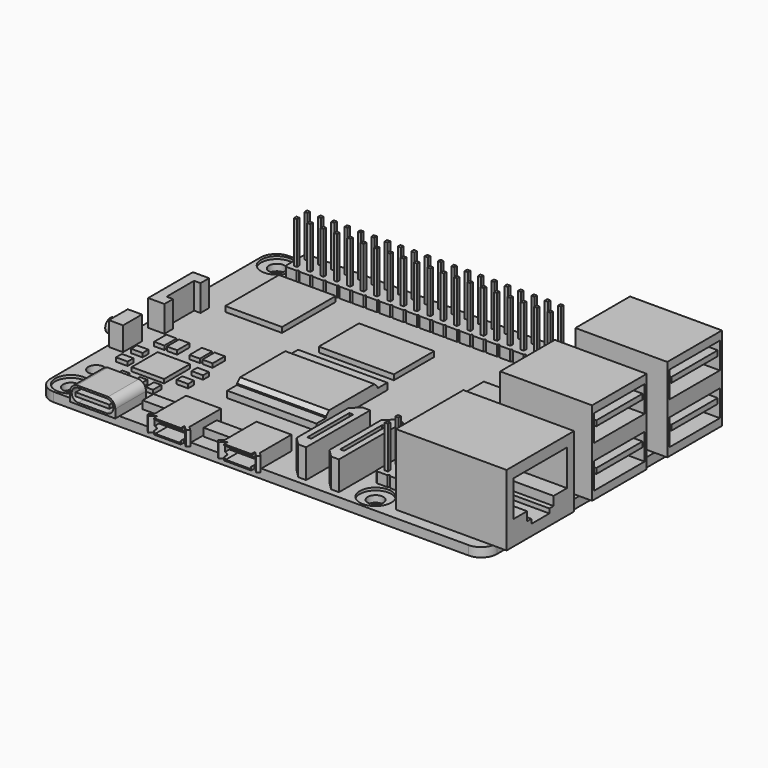
from build123d import *

# Parameters (mm, degrees)
SKETCH_W               = 85
SKETCH_H               = 56
PAD_DEPTH              = 1.75
FILLET_R               = 3
SKETCH001_R            = 1.5
POCKET_DEPTH           = 1.751
SKETCH002_R            = 3
POCKET001_DEPTH        = 0.5
SKETCH003_W            = 8.67
SKETCH003_H            = 7.31
PAD001_DEPTH           = 3.2
PAD002_DEPTH           = 2.76
SKETCH005_W            = 3
SKETCH005_H            = 15.25
PAD003_DEPTH           = 5.5
SKETCH006_W            = 21.08
SKETCH006_H            = 16.06
PAD004_DEPTH           = 13.5
SKETCH007_W            = 17.5
SKETCH007_H            = 13
PAD005_DEPTH           = 16
SKETCH008_W            = 6.43
SKETCH008_H            = 0.7
POCKET002_DEPTH        = 6
POCKET003_DEPTH        = 56.991
SKETCH010_W            = 4.58
SKETCH010_H            = 0.3
POCKET004_DEPTH        = 7
SKETCH011_W            = 4.58
SKETCH011_H            = 0.3
POCKET005_DEPTH        = 1
LINEARPATTERN_COUNT    = 2
LINEARPATTERN_PITCH    = 13.4
SKETCH012_W            = 0.75
SKETCH012_H            = 10
POCKET006_DEPTH        = 5.5
LINEARPATTERN001_COUNT = 2
LINEARPATTERN001_PITCH = 6.25
POCKET007_DEPTH        = 18
SKETCH014_W            = 12
SKETCH014_H            = 5
SKETCH014_W_2          = 11
SKETCH014_H_2          = 1
POCKET008_DEPTH        = 15
SKETCH015_W            = 10.81
SKETCH015_H            = 12.78
SKETCH015_W_2          = 14.3
SKETCH015_H_2          = 9.58
SKETCH015_W_3          = 12.04
SKETCH015_H_3          = 11.72
PAD006_DEPTH           = 1
SKETCH016_W            = 4.58
SKETCH016_H            = 7.31
SKETCH016_W_2          = 2.96
SKETCH016_H_2          = 6.01
SKETCH016_W_3          = 4.09
SKETCH016_H_3          = 2.58
SKETCH016_W_4          = 5.5
SKETCH016_H_4          = 3.07
PAD007_DEPTH           = 1.5
SKETCH017_W            = 1.95
SKETCH017_H            = 2.92
SKETCH017_W_2          = 2.2
SKETCH017_H_2          = 1.39
SKETCH017_W_3          = 1.403466
SKETCH017_H_3          = 1.99
SKETCH017_W_4          = 6.16
SKETCH017_H_4          = 6.16
PAD008_DEPTH           = 0.75
PAD009_DEPTH           = 5
SKETCH019_W            = 2.7
SKETCH019_H            = 4.5
PAD010_DEPTH           = 4.5
SKETCH020_R            = 1.25
PAD011_DEPTH           = 1.5
SKETCH022_W            = 16.98
SKETCH022_H            = 16.87
PAD012_DEPTH           = 1.25
SKETCH023_W            = 16.98
SKETCH023_H            = 12.25
PAD013_DEPTH           = 1
CHAMFER_SIZE           = 0.75
PAD014_DEPTH           = 2
SKETCH025_W            = 0.6
SKETCH025_H            = 0.6
PAD015_DEPTH           = 8
LINEARPATTERN002_COUNT = 20
LINEARPATTERN002_PITCH = 2.54
PAD016_DEPTH           = 2
SKETCH027_W            = 0.6
SKETCH027_H            = 0.6
PAD017_DEPTH           = 8


with BuildPart() as part:
    # Sketch → Pad (new body)
    with BuildSketch(Plane.XY):
        Rectangle(SKETCH_W, SKETCH_H)
    extrude(amount=PAD_DEPTH)

    # Fillet
    fillet_edges = [part.edges().sort_by_distance(p)[0] for p in [
        (-42.5, -28, 0.875),
        (-42.5, 28, 0.875),
        (42.5, 28, 0.875),
        (42.5, -28, 0.875),
    ]]
    fillet(fillet_edges, radius=FILLET_R)

    # Sketch001 (on Face5 of Fillet) → Pocket (cut, through all)
    with BuildSketch(Plane.XY.offset(1.75)):
        with Locations((-39, -18.5)):
            Circle(SKETCH001_R)
        with Locations((19, -24.5)):
            Circle(SKETCH001_R)
        with Locations((19, 24.5)):
            Circle(SKETCH001_R)
        with Locations((19, 18.5)):
            Circle(SKETCH001_R)
        with Locations((-39, 24.5)):
            Circle(SKETCH001_R)
        with Locations((-39, -24.5)):
            Circle(SKETCH001_R)
    extrude(amount=-POCKET_DEPTH, mode=Mode.SUBTRACT)

    # Sketch002 (on Face5 of Pocket) → Pocket001 (cut)
    with BuildSketch(Plane.XY.offset(1.75)):
        with Locations((19, 24.5)):
            Circle(SKETCH002_R)
        with Locations((19, -24.5)):
            Circle(SKETCH002_R)
        with Locations((-39, -24.5)):
            Circle(SKETCH002_R)
        with Locations((-39, 24.5)):
            Circle(SKETCH002_R)
    extrude(amount=-POCKET001_DEPTH, mode=Mode.SUBTRACT)

    # Sketch003 (on Face5 of Pocket001) → Pad001 (join)
    with BuildSketch(Plane.XY.offset(1.75)):
        with Locations((-31.3, -25.335)):
            Rectangle(SKETCH003_W, SKETCH003_H)
    extrude(amount=PAD001_DEPTH)

    # Sketch004 (on Face5 of Pad001) → Pad002 (join)
    with BuildSketch(Plane.XY.offset(1.75)):
        Polygon((-20.04, -20.82), (-20.04, -28.34), (-20.76331, -29.06331), (-20.296619, -29.53), (-19.415, -28.648381), (-19.265, -28.648381), (-19.265, -29.448381), (-14.135, -29.448381), (-14.135, -28.648381), (-13.985, -28.648381), (-13.103381, -29.53), (-12.63669, -29.06331), (-13.36, -28.34), (-13.36, -20.82), align=None)
        Polygon((-6.64, -20.82), (-6.64, -28.34), (-7.36331, -29.06331), (-6.896619, -29.53), (-6.015, -28.648381), (-5.865, -28.648381), (-5.865, -29.448381), (-0.735, -29.448381), (-0.735, -28.648381), (-0.585, -28.648381), (0.296619, -29.53), (0.76331, -29.06331), (0.04, -28.34), (0.04, -20.82), align=None)
    extrude(amount=PAD002_DEPTH)

    # Sketch005 (on Face5 of Pad002) → Pad003 (join)
    with BuildSketch(Plane.XY.offset(1.75)):
        with Locations((6.07, -19.125)):
            Rectangle(SKETCH005_W, SKETCH005_H)
        with Locations((12.32, -19.125)):
            Rectangle(SKETCH005_W, SKETCH005_H)
    extrude(amount=PAD003_DEPTH)

    # Sketch006 (on Face5 of Pad003) → Pad004 (join)
    with BuildSketch(Plane.XY.offset(1.75)):
        with Locations((34.468732, -17.8)):
            Rectangle(SKETCH006_W, SKETCH006_H)
    extrude(amount=PAD004_DEPTH)

    # Sketch007 (on Face5 of Pad004) → Pad005 (join)
    with BuildSketch(Plane.XY.offset(1.75)):
        with Locations((36.19, 1.1)):
            Rectangle(SKETCH007_W, SKETCH007_H)
        with Locations((36.19, 19)):
            Rectangle(SKETCH007_W, SKETCH007_H)
    extrude(amount=PAD005_DEPTH)

    # Sketch008 (on Face69 of Pad005) → Pocket002 (cut)
    with BuildSketch(Plane.XZ.offset(28.99)):
        with BuildLine():
            ThreePointArc((-34.015, 4.6), (-35.265, 3.35), (-34.015, 2.1))
            Line((-34.015, 2.1), (-28.585, 2.1))
            ThreePointArc((-28.585, 2.1), (-27.335, 3.35), (-28.585, 4.6))
            Line((-34.015, 4.6), (-28.585, 4.6))
        make_face()
        with Locations((-31.3, 3.35)):
            Rectangle(SKETCH008_W, SKETCH008_H, mode=Mode.SUBTRACT)
    extrude(amount=-POCKET002_DEPTH, mode=Mode.SUBTRACT)

    # Sketch009 (on Face69 of Pocket002) → Pocket003 (cut, through all)
    with BuildSketch(Plane.XZ.offset(28.99)):
        with BuildLine():
            Line((-35.635, 1.75), (-35.635, 3.35))
            ThreePointArc((-34.015, 4.97), (-35.160513, 4.495513), (-35.635, 3.35))
            Line((-34.015, 4.97), (-28.585, 4.97))
            ThreePointArc((-26.965, 3.35), (-27.439487, 4.495513), (-28.585, 4.97))
            Line((-26.965, 3.35), (-26.965, 1.75))
            Line((-26.715, 1.75), (-26.965, 1.75))
            Line((-26.715, 5.2), (-26.715, 1.75))
            Line((-35.885, 5.2), (-26.715, 5.2))
            Line((-35.885, 1.75), (-35.885, 5.2))
            Line((-35.635, 1.75), (-35.885, 1.75))
        make_face()
    extrude(amount=-POCKET003_DEPTH, mode=Mode.SUBTRACT)

    # Sketch010 (on Face54 of Pocket003) → Pocket004 (cut)
    with BuildSketch(Plane.XZ.offset(29.448381)):
        Polygon((-19.59, 4.28), (-13.81, 4.28), (-13.81, 2.836889), (-14.41, 1.98), (-18.99, 1.98), (-19.59, 2.836889), align=None)
        with Locations((-16.7, 3.408444)):
            Rectangle(SKETCH010_W, SKETCH010_H, mode=Mode.SUBTRACT)
    pocket004 = extrude(amount=-POCKET004_DEPTH, mode=Mode.SUBTRACT)

    # Sketch011 (on Face119 of Pocket004) → Pocket005 (cut)
    with BuildSketch(Plane.XZ.offset(29.448381)):
        with Locations((-16.7, 3.408444)):
            Rectangle(SKETCH011_W, SKETCH011_H)
    pocket005 = extrude(amount=-POCKET005_DEPTH, mode=Mode.SUBTRACT)

    # LinearPattern: Pocket004, Pocket005 ×2
    with Locations(*[(i * LINEARPATTERN_PITCH, 0, 0) for i in range(1, LINEARPATTERN_COUNT)]):
        add(pocket004, mode=Mode.SUBTRACT)
        add(pocket005, mode=Mode.SUBTRACT)

    # Sketch012 (on Face68 of LinearPattern) → Pocket006 (cut)
    with BuildSketch(Plane.XY.offset(7.25)):
        Polygon((4.57, -26.75), (6.07, -26.75), (4.57, -25.25), align=None)
        Polygon((4.57, -11.5), (4.57, -13), (6.07, -11.5), align=None)
        with Locations((6.07, -19.125)):
            Rectangle(SKETCH012_W, SKETCH012_H)
    pocket006 = extrude(amount=-POCKET006_DEPTH, mode=Mode.SUBTRACT)

    # LinearPattern001: Pocket006 ×2
    with Locations(*[(i * LINEARPATTERN001_PITCH, 0, 0) for i in range(1, LINEARPATTERN001_COUNT)]):
        add(pocket006, mode=Mode.SUBTRACT)

    # Sketch013 (on Face58 of LinearPattern001) → Pocket007 (cut)
    with BuildSketch(Plane.YZ.offset(45.008732)):
        Polygon((-24.15, 13.185), (-11.45, 13.185), (-11.45, 6.355), (-14.65, 6.355), (-14.65, 4.665), (-15.65, 4.665), (-15.65, 3.815), (-19.95, 3.815), (-19.95, 4.665), (-20.95, 4.665), (-20.95, 6.355), (-24.15, 6.355), align=None)
    extrude(amount=-POCKET007_DEPTH, mode=Mode.SUBTRACT)

    # Sketch014 (on Face67 of Pocket007) → Pocket008 (cut)
    with BuildSketch(Plane.YZ.offset(44.94)):
        with Locations((1.1, 13.75)):
            Rectangle(SKETCH014_W, SKETCH014_H)
        with Locations((1.1, 14.33)):
            Rectangle(SKETCH014_W_2, SKETCH014_H_2, mode=Mode.SUBTRACT)
        with Locations((1.1, 5.75)):
            Rectangle(SKETCH014_W, SKETCH014_H)
        with Locations((1.1, 6.33)):
            Rectangle(SKETCH014_W_2, SKETCH014_H_2, mode=Mode.SUBTRACT)
        with Locations((19, 13.75)):
            Rectangle(SKETCH014_W, SKETCH014_H)
        with Locations((19, 14.33)):
            Rectangle(SKETCH014_W_2, SKETCH014_H_2, mode=Mode.SUBTRACT)
        with Locations((19, 5.75)):
            Rectangle(SKETCH014_W, SKETCH014_H)
        with Locations((19, 6.33)):
            Rectangle(SKETCH014_W_2, SKETCH014_H_2, mode=Mode.SUBTRACT)
    extrude(amount=-POCKET008_DEPTH, mode=Mode.SUBTRACT)

    # Sketch015 (on Face2 of Pocket008) → Pad006 (join)
    with BuildSketch(Plane.XY.offset(1.75)):
        with Locations((-30.225, 14.4)):
            Rectangle(SKETCH015_W, SKETCH015_H)
        with Locations((-9.46, 11.28)):
            Rectangle(SKETCH015_W_2, SKETCH015_H_2)
        with Locations((15.61, 7.17)):
            Rectangle(SKETCH015_W_3, SKETCH015_H_3)
        Polygon((21.28, 0), (16.980791, -4.299209), (21.28, -8.598418), (25.579209, -4.299209), align=None)
    extrude(amount=PAD006_DEPTH)

    # Sketch016 (on Face2 of Pad006) → Pad007 (join)
    with BuildSketch(Plane.XY.offset(1.75)):
        with Locations((24.57, 16.025)):
            Rectangle(SKETCH016_W, SKETCH016_H)
        with Locations((23.76, 24.075)):
            Rectangle(SKETCH016_W_2, SKETCH016_H_2)
        with Locations((-23.605, -22.83)):
            Rectangle(SKETCH016_W_3, SKETCH016_H_3)
        with Locations((-10.3, -23.805)):
            Rectangle(SKETCH016_W_4, SKETCH016_H_4)
    extrude(amount=PAD007_DEPTH)

    # Sketch017 (on Face2 of Pad007) → Pad008 (join)
    with BuildSketch(Plane.XY.offset(1.75)):
        with Locations((-36.025, -5.75)):
            Rectangle(SKETCH017_W, SKETCH017_H)
        with Locations((-33.595, -5.75)):
            Rectangle(SKETCH017_W, SKETCH017_H)
        with Locations((-29.265, -5.75)):
            Rectangle(SKETCH017_W, SKETCH017_H)
        with Locations((-26.835, -5.75)):
            Rectangle(SKETCH017_W, SKETCH017_H)
        with Locations((-37.19, -10.405)):
            Rectangle(SKETCH017_W_2, SKETCH017_H_2)
        with Locations((-37.19, -13.965)):
            Rectangle(SKETCH017_W_2, SKETCH017_H_2)
        with Locations((-25.67, -10.405)):
            Rectangle(SKETCH017_W_2, SKETCH017_H_2)
        with Locations((-25.67, -13.965)):
            Rectangle(SKETCH017_W_2, SKETCH017_H_2)
        with Locations((-34.208665, -18.395)):
            Rectangle(SKETCH017_W_3, SKETCH017_H_3)
        with Locations((-30.845199, -18.395)):
            Rectangle(SKETCH017_W_3, SKETCH017_H_3)
        with Locations((-28.171733, -18.395)):
            Rectangle(SKETCH017_W_3, SKETCH017_H_3)
        with Locations((-31.43, -12.57)):
            Rectangle(SKETCH017_W_4, SKETCH017_H_4)
        with Locations((-0.055, -16.35)):
            Rectangle(SKETCH017_W, SKETCH017_H)
        with Locations((13.225, 20.1)):
            Rectangle(SKETCH017_W, SKETCH017_H)
    extrude(amount=PAD008_DEPTH)

    # Sketch018 (on Face2 of Pad008) → Pad009 (join)
    with BuildSketch(Plane.XY.offset(1.75)):
        Polygon((-41.39, 7.51), (-41.39, -3.14), (-38.3, -3.14), (-38.3, -1.09), (-39.52, -1.09), (-39.52, 5.46), (-38.3, 5.46), (-38.3, 7.51), align=None)
    extrude(amount=PAD009_DEPTH)

    # Sketch019 (on Face2 of Pad009) → Pad010 (join)
    with BuildSketch(Plane.XY.offset(1.75)):
        with Locations((-40.75, -9.35)):
            Rectangle(SKETCH019_W, SKETCH019_H)
    extrude(amount=PAD010_DEPTH)

    # Sketch020 (on Face64 of Pad010) → Pad011 (join)
    with BuildSketch(Plane(origin=(-42.1, 0, 0), x_dir=(0, -1, 0), z_dir=(-1, 0, 0))):
        with Locations((9.35, 4)):
            Circle(SKETCH020_R)
    extrude(amount=PAD011_DEPTH)

    # Sketch022 (on Face2 of Pad011) → Pad012 (join)
    with BuildSketch(Plane.XY.offset(1.75)):
        with Locations((-9.59, -5.025)):
            Rectangle(SKETCH022_W, SKETCH022_H)
    extrude(amount=PAD012_DEPTH)

    # Sketch023 (on Face192 of Pad012) → Pad013 (join)
    with BuildSketch(Plane.XY.offset(3)):
        with Locations((-9.59, -5.025)):
            Rectangle(SKETCH023_W, SKETCH023_H)
    extrude(amount=PAD013_DEPTH)

    # Chamfer
    chamfer_edges = [part.edges().sort_by_distance(p)[0] for p in [
        (-9.59, -11.15, 4),
        (-9.59, 1.1, 4),
    ]]
    chamfer(chamfer_edges, length=CHAMFER_SIZE)

    # Sketch024 (on Face9 of Chamfer) → Pad014 (join)
    with BuildSketch(Plane.XY.offset(1.75)):
        Polygon((-35.52, 26.85), (-35.52, 24.81), (-35.27, 24.56), (-35.52, 24.31), (-35.52, 22.27), (-35.27, 22.02), (-33.23, 22.02), (-32.98, 22.27), (-32.98, 24.31), (-33.23, 24.56), (-32.98, 24.81), (-32.98, 26.85), (-33.23, 27.1), (-35.27, 27.1), align=None)
    pad014 = extrude(amount=PAD014_DEPTH)

    # Sketch025 (on Face220 of Pad014) → Pad015 (join)
    with BuildSketch(Plane.XY.offset(3.75)):
        with Locations((-34.25, 25.83)):
            Rectangle(SKETCH025_W, SKETCH025_H)
        with Locations((-34.25, 23.29)):
            Rectangle(SKETCH025_W, SKETCH025_H)
    pad015 = extrude(amount=PAD015_DEPTH)

    # LinearPattern002: Pad015, Pad014 ×20
    with Locations(*[(i * LINEARPATTERN002_PITCH, 0, 0) for i in range(1, LINEARPATTERN002_COUNT)]):
        add(pad015)
        add(pad014)

    # Sketch026 (on Face9 of LinearPattern002) → Pad016 (join)
    with BuildSketch(Plane.XY.offset(1.75)):
        Polygon((16.16, -16.14), (16.16, -18.18), (16.41, -18.43), (16.16, -18.68), (16.16, -20.72), (16.41, -20.97), (18.45, -20.97), (18.7, -20.72), (18.95, -20.97), (20.99, -20.97), (21.24, -20.72), (21.24, -18.68), (20.99, -18.43), (21.24, -18.18), (21.24, -16.14), (20.99, -15.89), (18.95, -15.89), (18.7, -16.14), (18.45, -15.89), (16.41, -15.89), align=None)
    extrude(amount=PAD016_DEPTH)

    # Sketch027 (on Face349 of Pad016) → Pad017 (join)
    with BuildSketch(Plane.XY.offset(3.75)):
        with Locations((17.43, -17.16)):
            Rectangle(SKETCH027_W, SKETCH027_H)
        with Locations((19.97, -17.16)):
            Rectangle(SKETCH027_W, SKETCH027_H)
        with Locations((17.43, -19.7)):
            Rectangle(SKETCH027_W, SKETCH027_H)
        with Locations((19.97, -19.7)):
            Rectangle(SKETCH027_W, SKETCH027_H)
    extrude(amount=PAD017_DEPTH)


solid = part.part
